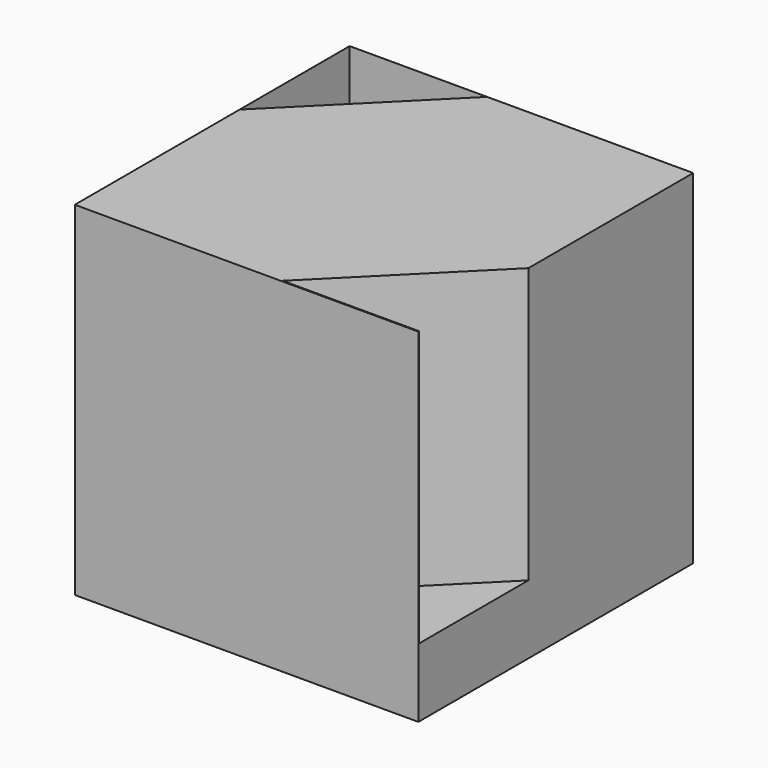
from build123d import *

# Parameters (mm, degrees)
F0_W     = 127
F0_H     = 127.000008
F3_DEPTH = 127
F4_DEPTH = 101.6


with BuildPart() as f3:
    # F0 (on Top) → F3 (new body)
    with BuildSketch(Plane.XY):
        with Locations((-0.070136, 0.623204)):
            Rectangle(F0_W, F0_H)
    extrude(amount=-F3_DEPTH)

    # F2 (on Top) + F1 (on Top) → F4 (cut)
    with BuildSketch(Plane.XY):
        Polygon((12.965537, -62.513635), (63.765534, -62.513635), (63.765534, -11.713635), align=None)
    with BuildSketch(Plane.XY):
        Polygon((-12.756392, 64.109464), (-63.556392, 64.109464), (-63.556392, 13.30946), align=None)
    extrude(amount=-F4_DEPTH, mode=Mode.SUBTRACT)


solid = f3.part
